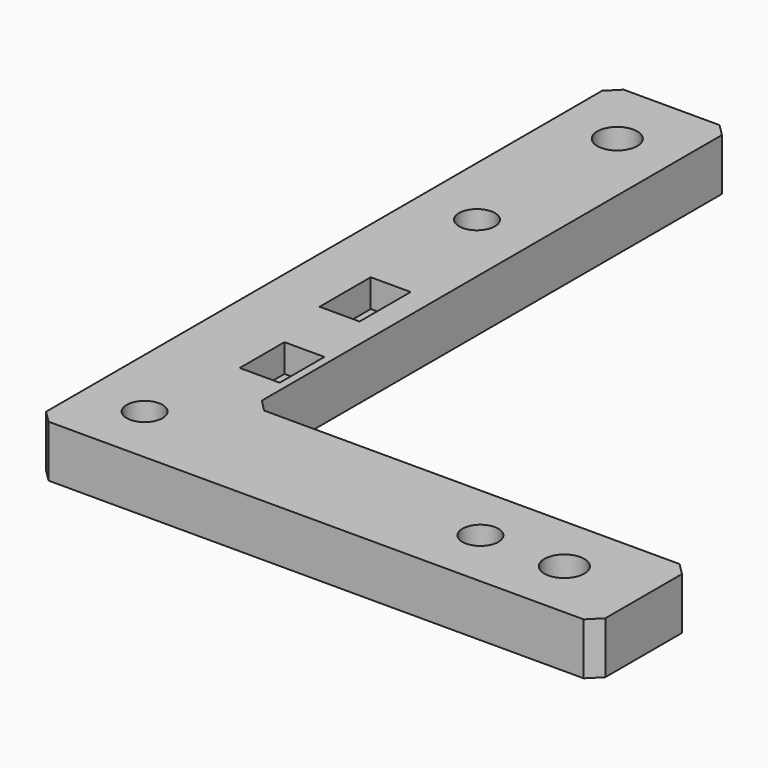
from build123d import *

# Parameters (mm, degrees)
F0_R     = 2.25
F0_R_2   = 2.5
F1_DEPTH = 6.5
F2_SIZE  = 1.5
F3_W     = 5
F3_H     = 8
F3_H_2   = 7
F4_DEPTH = 3.5


with BuildPart() as f1:
    # F0 (on Top) → F1 (new body)
    with BuildSketch(Plane.XY):
        Polygon((-21.849313, 8.429525), (-36.849313, 8.429525), (-36.849313, -81.570475), (33.150687, -81.570475), (33.150687, -66.570475), (23.150687, -66.570475), (-21.849313, -66.570475), align=None)
        with Locations((-29.349313, -74.020133)):
            Circle(F0_R, mode=Mode.SUBTRACT)
        with Locations((12.650687, -73.985228)):
            Circle(F0_R, mode=Mode.SUBTRACT)
        with Locations((23.150687, -73.976502)):
            Circle(F0_R_2, mode=Mode.SUBTRACT)
        with Locations((-29.349313, -22.020115)):
            Circle(F0_R, mode=Mode.SUBTRACT)
        with Locations((-29.349313, -0.070475)):
            Circle(F0_R_2, mode=Mode.SUBTRACT)
    extrude(amount=F1_DEPTH)

    # F2
    f2_edges = [f1.edges().sort_by_distance(p)[0] for p in [
        (-21.849313, 8.429525, 3.25),
        (-36.849313, 8.429525, 3.25),
        (-36.849313, -81.570475, 3.25),
        (-21.849313, -66.570475, 3.25),
        (33.150687, -66.570475, 3.25),
        (33.150687, -81.570475, 3.25),
    ]]
    chamfer(f2_edges, length=F2_SIZE)

    # F3 (on face) → F4 (cut)
    with BuildSketch(Plane.XY.offset(6.5)):
        with Locations((-27.349313, -42.020133)):
            Rectangle(F3_W, F3_H)
        with Locations((-25.349313, -57.520133)):
            Rectangle(F3_W, F3_H_2)
    extrude(amount=-F4_DEPTH, mode=Mode.SUBTRACT)


solid = f1.part
